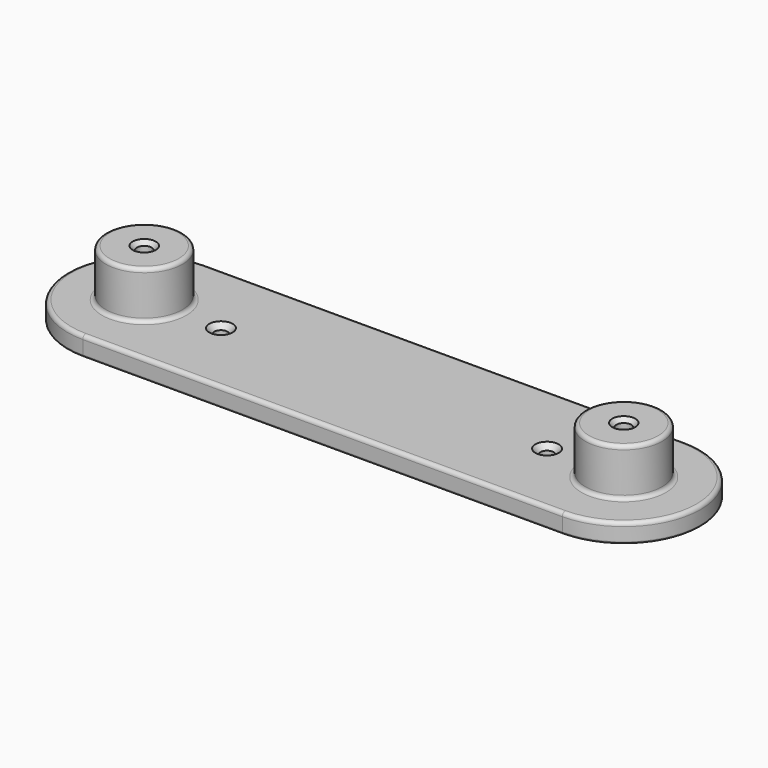
from build123d import *

# Parameters (mm, degrees)
PAD_DEPTH           = 5
SKETCH001_R         = 10
PAD001_DEPTH        = 12.4
HOLE_D              = 3.9
HOLE_DEPTH          = 15.4
HOLE_CSINK_D        = 6
HOLE_CSINK_ANGLE    = 90
HOLE_TIPS_R         = 1.95
FILLET_R            = 1
FILLET001_R         = 0.5
HOLE001_D           = 3.4
HOLE001_CSINK_D     = 6.1
HOLE001_CSINK_ANGLE = 90


with BuildPart() as part:
    # Sketch → Pad (new body)
    with BuildSketch(Plane.XY):
        with BuildLine():
            ThreePointArc((20, 40), (0, 20), (20, 0))
            Line((20, 0), (145, 0))
            ThreePointArc((145, 0), (165, 20), (145, 40))
            Line((145, 40), (20, 40))
        make_face()
    extrude(amount=PAD_DEPTH)

    # Sketch001 → Pad001 (join)
    with BuildSketch(Plane.XY.offset(5)):
        with Locations((20, 20)):
            Circle(SKETCH001_R)
        with Locations((145, 20)):
            Circle(SKETCH001_R)
    extrude(amount=PAD001_DEPTH)

    # Hole
    with Locations(Plane.XY.offset(17.4)):
        with Locations((20, 20), (145, 20)):
            CounterSinkHole(HOLE_D / 2, HOLE_CSINK_D / 2, depth=HOLE_DEPTH, counter_sink_angle=HOLE_CSINK_ANGLE)

    # Hole tips → Hole tip 1 section 0
    with BuildSketch(Plane.XY.offset(2), mode=Mode.PRIVATE) as hole_tip_1_s0:
        with Locations((20, 20)):
            Circle(HOLE_TIPS_R)
    loft([hole_tip_1_s0.sketch, Vertex(20, 20, 0.828322)], mode=Mode.SUBTRACT)

    # Hole tips → Hole tip 2 section 0
    with BuildSketch(Plane.XY.offset(2), mode=Mode.PRIVATE) as hole_tip_2_s0:
        with Locations((145, 20)):
            Circle(HOLE_TIPS_R)
    loft([hole_tip_2_s0.sketch, Vertex(145, 20, 0.828322)], mode=Mode.SUBTRACT)

    # Fillet
    fillet_edges = [part.edges().sort_by_distance(p)[0] for p in [
        (10, 20, 17.4),
        (135, 20, 5),
        (0, 20, 5),
        (82.5, 0, 5),
        (82.5, 40, 5),
        (165, 20, 5),
        (10, 20, 5),
        (135, 20, 17.4),
    ]]
    fillet(fillet_edges, radius=FILLET_R)

    # Fillet001
    fillet001_edges = [part.edges().sort_by_distance(p)[0] for p in [
        (165, 20, 0),
        (82.5, 0, 0),
        (82.5, 40, 0),
        (0, 20, 0),
    ]]
    fillet(fillet001_edges, radius=FILLET001_R)

    # Hole001 (through all)
    with Locations(Plane.XY.offset(5)):
        with Locations((40, 20), (125, 20)):
            CounterSinkHole(HOLE001_D / 2, HOLE001_CSINK_D / 2, counter_sink_angle=HOLE001_CSINK_ANGLE)


solid = part.part
